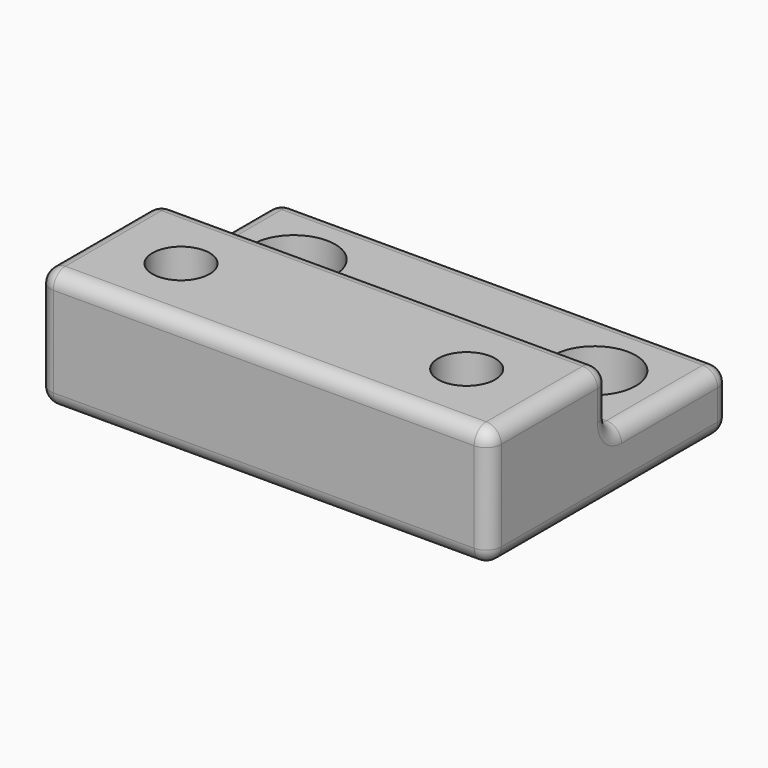
from build123d import *

# Parameters (mm, degrees)
F0_W     = 30
F0_H     = 10
F0_R     = 2.75
F1_DEPTH = 4
F2_DEPTH = 8
F3_START = 2
F0_R_2   = 1.9
F3_DEPTH = 6
F4_R     = 1


with BuildPart() as f1:
    # F0 (on Top) → F1 (new body)
    with BuildSketch(Plane.XY):
        with Locations((15, 15)):
            Rectangle(F0_W, F0_H)
        with Locations((5, 15)):
            Circle(F0_R, mode=Mode.SUBTRACT)
        with Locations((25, 15)):
            Circle(F0_R, mode=Mode.SUBTRACT)
    extrude(amount=F1_DEPTH)

    # F0 (on Top) → F2 (join)
    with BuildSketch(Plane.XY):
        with Locations((15, 5)):
            Rectangle(F0_W, F0_H)
        Polygon((3.95, 2.3153212483), (2.4, 5), (3.95, 7.6846787517), (7.05, 7.6846787517), (8.6, 5), (7.05, 2.3153212483), align=None, mode=Mode.SUBTRACT)
        Polygon((22.95, 2.3153212483), (21.4, 5), (22.95, 7.6846787517), (26.05, 7.6846787517), (27.6, 5), (26.05, 2.3153212483), align=None, mode=Mode.SUBTRACT)
    extrude(amount=F2_DEPTH)

    # F0 (on Top) → F3 (join)
    with BuildSketch(Plane.XY.offset(F3_START)):
        Polygon((3.95, 7.6846787517), (2.4, 5), (3.95, 2.3153212483), (7.05, 2.3153212483), (8.6, 5), (7.05, 7.6846787517), align=None)
        with Locations((5.5, 5)):
            Circle(F0_R_2, mode=Mode.SUBTRACT)
        Polygon((22.95, 7.6846787517), (21.4, 5), (22.95, 2.3153212483), (26.05, 2.3153212483), (27.6, 5), (26.05, 7.6846787517), align=None)
        with Locations((24.5, 5)):
            Circle(F0_R_2, mode=Mode.SUBTRACT)
    extrude(amount=F3_DEPTH)

    # F4
    f4_edges = [f1.edges().sort_by_distance(p)[0] for p in [
        (0, 5, 8),
        (15, 0, 8),
        (30, 5, 8),
        (15, 10, 8),
        (15, 10, 4),
        (15, 20, 4),
        (0, 15, 4),
        (30, 15, 4),
        (0, 10, 6),
        (30, 10, 6),
        (0, 0, 4),
        (0, 10, 0),
        (0, 20, 2),
        (15, 20, 0),
        (30, 20, 2),
        (30, 10, 0),
        (30, 0, 4),
        (15, 0, 0),
    ]]
    fillet(f4_edges, radius=F4_R)


solid = f1.part
